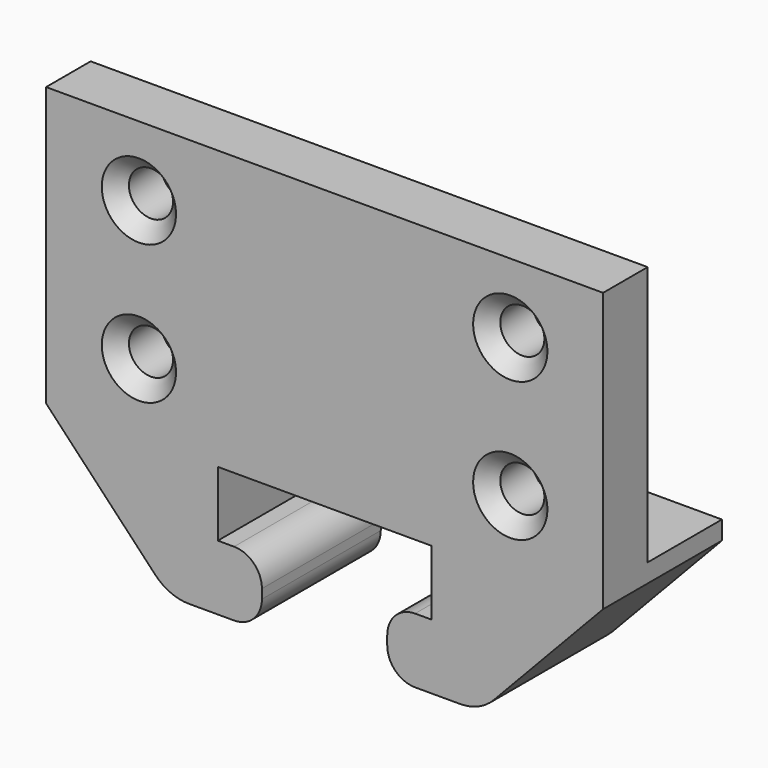
from build123d import *

# Parameters (mm, degrees)
F1_DEPTH       = 16
F2_W           = 20
F2_H           = 40
F3_DEPTH       = 50
F5_D           = 4.75
F5_CSINK_D     = 8
F5_CSINK_ANGLE = 90


with BuildPart() as f1:
    # F0 (on Front) → F1 (new body)
    with BuildSketch(Plane.XZ):
        with BuildLine():
            Line((-11.5, 0), (0, 0))
            Line((0, 0), (11.5, 0))
            Line((11.5, 0), (11.5, -7))
            Line((11.5, -7), (9.75, -7))
            ThreePointArc((9.75, -7), (7.6286796564, -7.8786796564), (6.75, -10))
            Line((6.75, -10), (6.75, -11))
            ThreePointArc((6.75, -11), (7.6286796564, -13.1213203436), (9.75, -14))
            Line((9.75, -14), (14.5978726692, -14))
            ThreePointArc((14.5978726692, -14), (16.5746603892, -13.5926365315), (18.2293396683, -12.4369241241))
            Line((18.2293396683, -12.4369241241), (30, 0))
            Line((30, 0), (30, 30))
            Line((30, 30), (0, 30))
            Line((0, 30), (-30, 30))
            Line((-30, 30), (-30, 0))
            Line((-30, 0), (-18.2293396683, -12.4369241241))
            ThreePointArc((-18.2293396683, -12.4369241241), (-16.5746603892, -13.5926365315), (-14.5978726692, -14))
            Line((-14.5978726692, -14), (-9.75, -14))
            ThreePointArc((-9.75, -14), (-7.6286796564, -13.1213203436), (-6.75, -11))
            Line((-6.75, -11), (-6.75, -10))
            ThreePointArc((-6.75, -10), (-7.6286796564, -7.8786796564), (-9.75, -7))
            Line((-9.75, -7), (-11.5, -7))
            Line((-11.5, -7), (-11.5, 0))
        make_face()
    extrude(amount=F1_DEPTH)

    # F2 (on Right) → F3 (cut, symmetric)
    with BuildSketch(Plane.YZ):
        with Locations((0, 22)):
            Rectangle(F2_W, F2_H)
    extrude(amount=F3_DEPTH, both=True, mode=Mode.SUBTRACT)

    # F5 (through all)
    with Locations(Plane.XZ.offset(16)):
        with Locations((20, 22.5), (20, 7.5), (-20, 22.5), (-20, 7.5)):
            CounterSinkHole(F5_D / 2, F5_CSINK_D / 2, counter_sink_angle=F5_CSINK_ANGLE)


solid = f1.part
